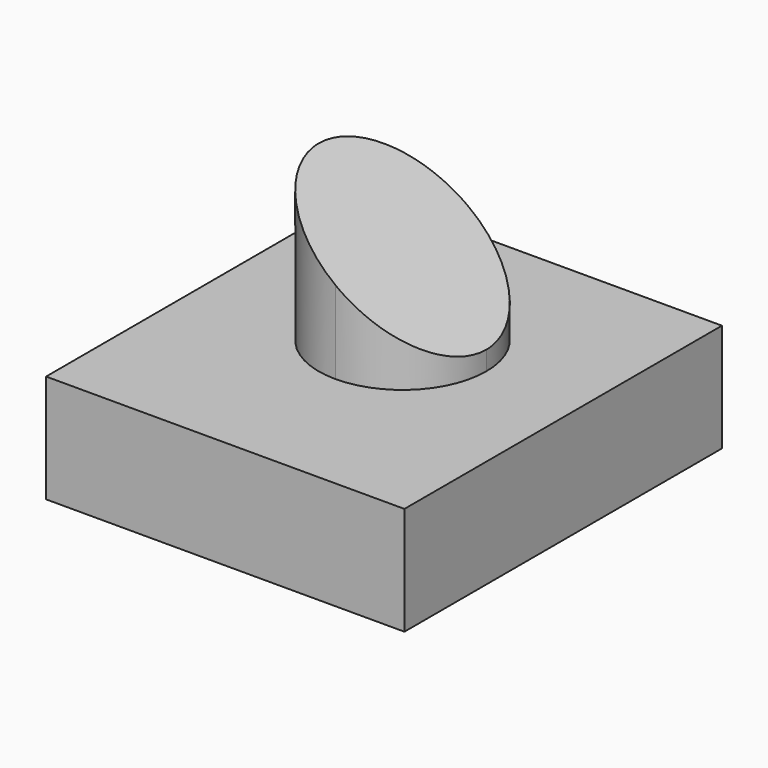
from build123d import *

# Parameters (mm, degrees)
F1_DEPTH = 50.8
F2_DEPTH = 21.59
F4_DEPTH = 79.241672


with BuildPart() as f1:
    # F0 (on Top) → F1 (new body)
    with BuildSketch(Plane.XY):
        with BuildLine():
            ThreePointArc((0, -16.728577), (11.82889, -11.82889), (16.728577, 0))
            ThreePointArc((16.728577, 0), (11.82889, 11.82889), (0, 16.728577))
            Line((0, 16.728577), (0, -16.728577))
        make_face()
        with BuildLine():
            Line((0, -16.728577), (0, 16.728577))
            ThreePointArc((0, 16.728577), (-16.728577, 0), (0, -16.728577))
        make_face()
    extrude(amount=F1_DEPTH)

    # F0 (on Top) → F2 (join)
    with BuildSketch(Plane.XY):
        with BuildLine():
            ThreePointArc((0, -16.728577), (-16.728577, 0), (0, 16.728577))
            Line((0, 16.728577), (0, 35.004374))
            Line((0, 35.004374), (-35.773702, 35.004374))
            Line((-35.773702, 35.004374), (-35.773702, -44.236299))
            Line((-35.773702, -44.236299), (0, -44.236299))
            Line((0, -44.236299), (0, -16.728577))
        make_face()
        with BuildLine():
            ThreePointArc((0, 16.728577), (11.82889, 11.82889), (16.728577, 0))
            ThreePointArc((16.728577, 0), (11.82889, -11.82889), (0, -16.728577))
            Line((0, -16.728577), (0, -44.236299))
            Line((0, -44.236299), (35.773702, -44.236299))
            Line((35.773702, -44.236299), (35.773702, 35.004374))
            Line((35.773702, 35.004374), (0, 35.004374))
            Line((0, 35.004374), (0, 16.728577))
        make_face()
    extrude(amount=F2_DEPTH)

    # F3 (on face) → F4 (cut, through all)
    with BuildSketch(Plane.XZ.offset(44.236299)):
        Polygon((16.728577, 50.8), (-16.728577, 50.8), (16.728577, 25.4), align=None)
    extrude(amount=-F4_DEPTH, mode=Mode.SUBTRACT)


solid = f1.part
